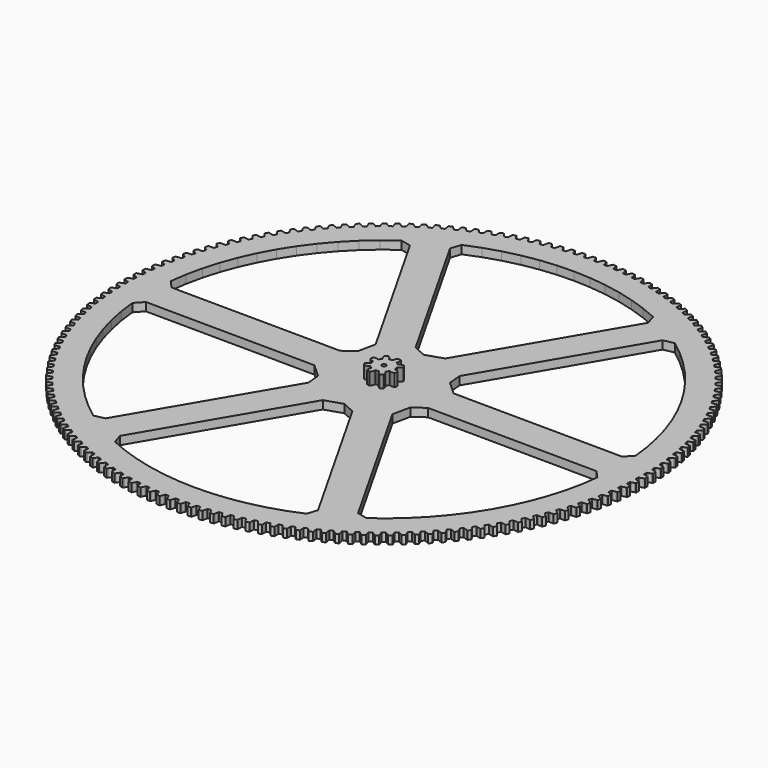
from build123d import *

# Parameters (mm, degrees)
F1_DEPTH = 10
F2_DEPTH = 4


with BuildPart() as f1:
    # F0 (on Top) → F1 (new body)
    with BuildSketch(Plane.XY):
        Polygon((-13.27646, -0.00481), (-13.1939, -0.17089), (-13.13288, -0.81546), (-12.99173, -1.44734), (-13.01893, -1.6308), (-13.07656, -1.71107), (-13.20774, -1.8214), (-13.3501, -1.89858), (-13.65528, -1.99503), (-13.93688, -2.15734), (-14.19151, -2.38919), (-14.42561, -2.66475), (-14.63868, -2.97784), (-14.82933, -3.32475), (-14.48061, -3.96028), (-14.07267, -4.55951), (-13.67702, -4.54714), (-13.30131, -4.49943), (-12.94951, -4.41594), (-12.62733, -4.29432), (-12.35487, -4.1171), (-12.13038, -3.88897), (-11.99699, -3.79717), (-11.83913, -3.73038), (-11.74144, -3.71547), (-11.56563, -3.77452), (-11.0667, -4.18716), (-10.52008, -4.53415), (-10.40959, -4.68311), (-10.39359, -4.78062), (-10.40832, -4.9514), (-10.45442, -5.10663), (-10.60201, -5.39063), (-10.68636, -5.70452), (-10.70247, -6.04851), (-10.67316, -6.4089), (-10.60243, -6.78095), (-10.49194, -7.16106), (-9.79597, -7.36387), (-9.08379, -7.49913), (-8.81277, -7.21061), (-8.58084, -6.91122), (-8.39112, -6.60342), (-8.2493, -6.28961), (-8.18196, -5.97163), (-8.18453, -5.65159), (-8.15512, -5.49234), (-8.09072, -5.33349), (-8.03219, -5.25387), (-7.86612, -5.17131), (-7.22154, -5.1103), (-6.58966, -4.96914), (-6.40621, -4.99634), (-6.32594, -5.05398), (-6.2156, -5.18515), (-6.13842, -5.32752), (-6.04197, -5.63269), (-5.87967, -5.9143), (-5.64781, -6.16892), (-5.37226, -6.40303), (-5.05916, -6.6161), (-4.71225, -6.80675), (-4.07673, -6.45803), (-3.47749, -6.05009), (-3.48987, -5.65443), (-3.53757, -5.27873), (-3.62106, -4.92693), (-3.74268, -4.60475), (-3.9199, -4.33229), (-4.14803, -4.1078), (-4.23984, -3.9744), (-4.30662, -3.81654), (-4.32154, -3.71886), (-4.26248, -3.54305), (-3.84985, -3.04412), (-3.50285, -2.4975), (-3.35389, -2.38701), (-3.25638, -2.37101), (-3.08561, -2.38574), (-2.93037, -2.43184), (-2.64637, -2.57942), (-2.33248, -2.66378), (-1.98849, -2.67989), (-1.62811, -2.65058), (-1.25605, -2.57985), (-0.87594, -2.46935), (-0.67314, -1.77339), (-0.53787, -1.06121), (-0.82639, -0.79019), (-1.12578, -0.55826), (-1.43358, -0.36853), (-1.7474, -0.22671), (-2.06537, -0.15937), (-2.38542, -0.16194), (-2.54466, -0.13254), (-2.70351, -0.06814), (-2.78313, -0.00961), (-2.86569, 0.15647), (-2.92671, 0.80104), (-3.06786, 1.43292), (-3.04066, 1.61638), (-2.98302, 1.69665), (-2.85185, 1.80698), (-2.70949, 1.88416), (-2.40431, 1.98061), (-2.12271, 2.14292), (-1.86808, 2.37477), (-1.63397, 2.65033), (-1.4209, 2.96342), (-1.23026, 3.31033), (-1.57898, 3.94586), (-1.98692, 4.54509), (-2.38257, 4.53271), (-2.75827, 4.48501), (-3.11007, 4.40152), (-3.43225, 4.2799), (-3.70471, 4.10268), (-3.9292, 3.87455), (-4.0626, 3.78274), (-4.22046, 3.71596), (-4.31815, 3.70105), (-4.49396, 3.7601), (-4.99288, 4.17274), (-5.5395, 4.51973), (-5.64999, 4.66869), (-5.666, 4.7662), (-5.65126, 4.93698), (-5.60517, 5.09221), (-5.45758, 5.37621), (-5.37322, 5.6901), (-5.35712, 6.03409), (-5.38643, 6.39448), (-5.45716, 6.76653), (-5.56765, 7.14664), (-6.26362, 7.34945), (-6.9758, 7.48471), (-7.24681, 7.19619), (-7.47874, 6.8968), (-7.66847, 6.589), (-7.81029, 6.27519), (-7.87763, 5.95721), (-7.87506, 5.63717), (-7.90447, 5.47792), (-7.96887, 5.31907), (-8.0274, 5.23945), (-8.19347, 5.15689), (-8.83804, 5.09588), (-9.46992, 4.95472), (-9.65338, 4.98192), (-9.73365, 5.03956), (-9.84399, 5.17073), (-9.92116, 5.3131), (-10.01762, 5.61827), (-10.17992, 5.89987), (-10.41177, 6.1545), (-10.68733, 6.38861), (-11.00042, 6.60168), (-11.34733, 6.79233), (-11.98286, 6.44361), (-12.58209, 6.03566), (-12.56972, 5.64001), (-12.52201, 5.26431), (-12.43852, 4.91251), (-12.31691, 4.59033), (-12.13968, 4.31787), (-11.91156, 4.09338), (-11.81975, 3.95998), (-11.75296, 3.80212), (-11.73805, 3.70444), (-11.7971, 3.52863), (-12.20974, 3.0297), (-12.55674, 2.48308), (-12.70569, 2.37259), (-12.80321, 2.35658), (-12.97398, 2.37132), (-13.12922, 2.41742), (-13.41321, 2.565), (-13.7271, 2.64936), (-14.0711, 2.66546), (-14.43148, 2.63615), (-14.80354, 2.56543), (-15.18365, 2.45493), (-15.38645, 1.75897), (-15.52171, 1.04678), (-15.2332, 0.77577), (-14.9338, 0.54384), (-14.626, 0.35411), (-14.31219, 0.21229), (-13.99422, 0.14495), (-13.67417, 0.14752), (-13.51493, 0.11812), (-13.35608, 0.05372), align=None)
        Polygon((-7.06386, 0.255215), (-7.02979, -0.003605), (-7.06386, -0.262425), (-7.16376, -0.503605), (-7.32268, -0.710715), (-7.52979, -0.869635), (-7.77097, -0.969535), (-8.02979, -1.003605), (-8.28861, -0.969535), (-8.52979, -0.869635), (-8.7369, -0.710715), (-8.89582, -0.503605), (-8.99572, -0.262425), (-9.02979, -0.003605), (-8.99572, 0.255215), (-8.89582, 0.496395), (-8.7369, 0.703505), (-8.52979, 0.862425), (-8.28861, 0.962325), (-8.02979, 0.996395), (-7.77097, 0.962325), (-7.52979, 0.862425), (-7.32268, 0.703505), (-7.16376, 0.496395), align=None, mode=Mode.SUBTRACT)
    extrude(amount=F1_DEPTH)

    # F0 (on Top) → F2 (join)
    with BuildSketch(Plane.XY):
        Polygon((117.89779, 0.458515), (117.29713, 0.660445), (117.27765, 2.303775), (117.87335, 2.519885), (119.06307, 2.982345), (119.657, 3.228115), (119.60606, 4.839015), (118.99778, 5.046765), (117.78122, 5.433125), (117.17305, 5.611165), (117.08866, 7.252445), (117.67537, 7.491925), (118.84588, 8.001015), (119.42964, 8.270065), (119.3151, 9.877695), (118.69909, 10.061245), (117.46822, 10.399245), (116.85349, 10.553125), (116.70432, 12.189785), (117.28111, 12.452255), (118.4306, 13.007195), (119.00327, 13.299095), (118.8253, 14.900945), (118.20253, 15.060025), (116.95926, 15.349125), (116.33893, 15.478595), (116.12523, 17.108085), (116.69119, 17.393135), (117.81786, 17.993055), (118.37855, 18.307355), (118.13744, 19.900915), (117.50887, 20.035275), (116.25515, 20.275025), (115.63019, 20.379895), (115.35227, 21.999665), (115.90653, 22.306865), (117.00862, 22.950825), (117.55646, 23.287025), (117.25258, 24.869815), (116.61919, 24.979235), (115.35698, 25.169275), (114.72837, 25.249365), (114.38668, 26.856895), (114.92837, 27.185745), (116.00416, 27.872745), (116.53829, 28.230325), (116.17211, 29.799885), (115.53489, 29.884185), (114.26616, 30.024215), (113.63487, 30.079415), (113.22994, 31.672185), (113.75822, 32.022175), (114.80602, 32.751145), (115.32561, 33.129545), (114.89771, 34.683405), (114.25766, 34.742475), (112.98439, 34.832275), (112.35141, 34.862485), (111.88387, 36.438015), (112.39791, 36.808605), (113.4161, 37.578395), (113.92033, 37.977025), (113.43138, 39.512775), (112.78949, 39.546515), (111.51367, 39.585935), (110.87999, 39.591115), (110.35057, 41.146945), (110.84957, 41.537555), (111.83655, 42.346975), (112.32464, 42.765215), (111.7754, 44.280445), (111.13268, 44.288795), (109.85629, 44.277785), (109.22291, 44.257925), (108.63243, 45.791625), (109.11561, 46.201645), (110.06984, 47.049425), (110.54103, 47.486615), (109.93235, 48.978965), (109.28981, 48.961915), (108.01485, 48.900495), (107.38274, 48.855625), (106.73214, 50.364805), (107.19874, 50.793595), (108.11874, 51.678405), (108.57228, 52.133875), (107.90513, 53.601015), (107.26376, 53.558595), (105.99222, 53.446845), (105.36238, 53.377045), (104.65266, 54.859335), (105.10196, 55.306225), (105.98628, 56.226685), (106.42148, 56.699725), (105.69688, 58.139355), (105.05769, 58.071635), (103.79156, 57.909735), (103.16497, 57.815105), (102.39724, 59.268205), (102.82853, 59.732495), (103.6758, 60.687175), (104.09197, 61.177035), (103.31106, 62.586925), (102.67504, 62.493995), (101.4163, 62.282205), (100.79394, 62.162895), (99.96941, 63.584535), (100.38202, 64.065495), (101.19091, 65.052905), (101.5874, 65.558825), (100.7514, 66.936755), (100.11955, 66.818775), (98.87016, 66.557425), (98.25299, 66.413615), (97.37294, 67.801575), (97.76623, 68.298455), (98.53548, 69.317055), (98.91167, 69.838245), (98.02189, 71.182075), (97.39519, 71.039225), (96.1571, 70.728715), (95.5461, 70.560645), (94.6119, 71.912745), (94.98525, 72.424775), (95.71366, 73.472975), (96.06897, 74.008615), (95.12679, 75.316245), (94.50623, 75.148745), (93.28137, 74.789565), (92.67749, 74.597485), (91.6906, 75.911625), (92.04343, 76.438005), (92.72986, 77.514155), (93.06373, 78.063415), (92.07063, 79.332805), (91.45717, 79.140925), (90.24745, 78.733635), (89.65163, 78.517845), (88.6136, 79.791965), (88.94535, 80.331885), (89.58873, 81.434315), (89.90064, 81.996335), (88.85817, 83.225495), (88.25277, 83.009525), (87.06009, 82.554765), (86.47325, 82.315605), (85.3857, 83.547725), (85.69586, 84.100325), (86.29519, 85.227315), (86.58465, 85.801215), (85.49443, 86.988235), (84.89803, 86.748515), (83.72425, 86.246985), (83.14732, 85.984835), (82.01194, 87.173025), (82.30003, 87.737445), (82.85436, 88.887235), (83.12093, 89.472125), (81.98466, 90.615145), (81.3982, 90.352055), (80.24515, 89.804545), (79.67903, 89.519805), (78.49759, 90.662215), (78.76316, 91.237575), (79.27164, 92.408365), (79.51489, 93.003325), (78.33435, 94.100565), (77.75874, 93.814505), (76.62822, 93.221875), (76.07379, 92.914985), (74.84814, 94.009835), (75.09077, 94.595235), (75.5526, 95.785195), (75.77215, 96.389315), (74.54919, 97.439055), (73.98533, 97.130475), (72.87911, 96.493645), (72.33724, 96.165095), (71.06929, 97.210665), (71.2886, 97.805195), (71.70306, 99.012475), (71.89857, 99.624785), (70.63509, 100.625395), (70.08386, 100.294785), (69.00366, 99.614745), (68.47519, 99.265045), (67.16693, 100.259705), (67.36259, 100.862435), (67.72902, 102.085145), (67.90019, 102.704705), (66.59817, 103.654615), (66.06043, 103.302485), (65.00794, 102.580305), (64.4937, 102.210005), (63.14716, 103.152195), (63.31885, 103.762195), (63.6367, 104.998425), (63.78326, 105.624265), (62.44473, 106.521995), (61.92132, 106.148895), (60.89818, 105.385695), (60.39897, 104.995365), (59.01626, 105.883625), (59.16372, 106.499925), (59.43247, 107.747745), (59.5542, 108.378885), (58.18124, 109.223035), (57.67298, 108.829555), (56.6808, 108.026525), (56.1974, 107.616775), (54.78067, 108.449725), (54.90367, 109.071365), (55.12292, 110.328825), (55.21961, 110.964285), (53.81438, 111.753535), (53.32206, 111.340275), (52.36237, 110.498685), (51.89554, 110.070155), (50.44701, 110.846475), (50.54535, 111.472495), (50.71475, 112.737645), (50.78627, 113.376425), (49.35095, 114.109545), (48.87535, 113.677155), (47.94965, 112.798305), (47.50011, 112.351665), (46.02205, 113.070165), (46.09558, 113.699575), (46.21487, 114.970425), (46.26109, 115.611535), (44.79793, 116.287375), (44.33978, 115.836535), (43.44953, 114.921805), (43.01799, 114.457755), (41.51269, 115.117285), (41.5613, 115.749115), (41.63029, 117.023685), (41.65114, 117.666125), (40.16243, 118.283635), (39.72244, 117.815045), (38.86903, 116.865855), (38.45616, 116.385115), (36.92598, 116.984675), (36.94959, 117.617925), (36.96817, 118.894225), (36.96363, 119.536985), (35.45168, 120.095195), (35.03055, 119.609595), (34.2153, 118.627425), (33.82174, 118.130755), (32.26907, 118.669385), (32.26765, 119.303085), (32.23579, 120.579125), (32.20586, 121.221195), (30.67304, 121.719245), (30.27142, 121.217385), (29.49561, 120.203775), (29.12198, 119.691945), (27.54925, 120.168815), (27.52278, 120.801955), (27.44054, 122.075735), (27.38527, 122.716135), (25.83397, 123.153235), (25.45249, 122.635895), (24.71733, 121.592425), (24.36421, 121.066235), (22.77386, 121.480605), (22.72241, 122.112205), (22.58991, 123.381745), (22.50938, 124.019455), (20.94202, 124.394925), (20.58128, 123.862925), (19.88792, 122.791225), (19.55586, 122.251495), (17.95039, 122.602705), (17.87402, 123.231785), (17.69147, 124.495095), (17.58581, 125.129125), (16.00484, 125.442385), (15.6654, 124.896545), (15.01492, 123.798295), (14.70444, 123.245865), (13.08635, 123.533385), (12.98519, 124.158955), (12.75286, 125.414065), (12.62224, 126.043425), (11.03013, 126.293975), (10.71252, 125.735155), (10.10593, 124.612065), (9.81753, 124.047805), (8.18933, 124.271165), (8.06354, 124.892245), (7.78181, 126.137205), (7.62643, 126.760915), (6.02566, 126.948375), (5.73038, 126.377435), (5.16863, 125.231255), (4.90274, 124.656045), (3.267, 124.814905), (3.11677, 125.430535), (2.78607, 126.663385), (2.60617, 127.280475), (0.99925, 127.404545), (0.72675, 126.822395), (0.21072, 125.654915), (-0.03223, 125.069645), (-1.67298, 125.163755), (-1.84741, 125.772975), (-2.22655, 126.991805), (-2.4307, 127.601295), (-4.04127, 127.661785), (-4.29055, 127.069325), (-4.76005, 125.882365), (-4.97969, 125.287955), (-6.62288, 125.317175), (-6.82125, 125.919025), (-7.24824, 127.121925), (-7.4763, 127.722875), (-9.08801, 127.719695), (-9.31369, 127.117845), (-9.73593, 125.913265), (-9.93192, 125.310635), (-11.57497, 125.274925), (-11.79696, 125.868465), (-12.27115, 127.053555), (-12.52278, 127.645025), (-14.13309, 127.578175), (-14.33483, 126.967875), (-14.70915, 125.747565), (-14.88118, 125.137665), (-16.52154, 125.037065), (-16.7668, 125.621365), (-17.28744, 126.786795), (-17.56223, 127.367875), (-19.16865, 127.237445), (-19.34612, 126.619655), (-19.67193, 125.385505), (-19.81973, 124.769285), (-21.45484, 124.603965), (-21.723, 125.178125), (-22.28927, 126.322075), (-22.58681, 126.891835), (-24.18682, 126.698055), (-24.33974, 126.073735), (-24.61654, 124.827675), (-24.73988, 124.206095), (-26.36718, 123.976305), (-26.65781, 124.539425), (-27.26883, 125.660115), (-27.58865, 126.217675), (-29.17976, 125.960835), (-29.30789, 125.330955), (-29.53525, 124.074935), (-29.63394, 123.448975), (-31.25089, 123.155065), (-31.56354, 123.706265), (-32.21836, 124.801935), (-32.55995, 125.346425), (-34.13967, 125.026925), (-34.24282, 124.392485), (-34.42039, 123.128465), (-34.49427, 122.499085), (-36.09834, 122.141535), (-36.43253, 122.679945), (-37.13012, 123.748895), (-37.49296, 124.279465), (-39.05882, 123.897805), (-39.13683, 123.259785), (-39.26431, 121.989735), (-39.31327, 121.357925), (-40.90197, 120.937285), (-41.25716, 121.462075), (-41.99644, 122.502625), (-42.37996, 123.018455), (-43.92952, 122.575225), (-43.98226, 121.934615), (-44.05947, 120.660525), (-44.08343, 120.027275), (-45.65427, 119.544195), (-46.02992, 120.054545), (-46.80973, 121.065085), (-47.21332, 121.565345), (-48.74417, 121.061255), (-48.77156, 120.419065), (-48.79837, 119.142905), (-48.7973, 118.509215), (-50.34782, 117.964445), (-50.74334, 118.459565), (-51.56247, 119.438505), (-51.98551, 119.922435), (-53.49524, 119.358255), (-53.49724, 118.715485), (-53.47362, 117.439265), (-53.44751, 116.806105), (-54.9753, 116.200515), (-55.39007, 116.679615), (-56.24723, 117.625425), (-56.68907, 118.092265), (-58.17533, 117.468885), (-58.15193, 116.826535), (-58.07791, 115.552245), (-58.02681, 114.920615), (-59.52948, 114.255135), (-59.96286, 114.717475), (-60.85671, 115.628685), (-61.31664, 116.077705), (-62.77712, 115.396095), (-62.72837, 114.755165), (-62.60406, 113.484805), (-62.52804, 112.855685), (-64.00325, 112.131355), (-64.45455, 112.576215), (-65.38371, 113.451395), (-65.86102, 113.881905), (-67.29343, 113.143115), (-67.21939, 112.504625), (-67.045, 111.240155), (-66.94418, 110.614535), (-68.38963, 109.832495), (-68.85815, 110.259175), (-69.82116, 111.096965), (-70.3151, 111.508275), (-71.71721, 110.713485), (-71.618, 110.078405), (-71.39379, 108.821825), (-71.26833, 108.200665), (-72.68176, 107.362135), (-73.16677, 107.769965), (-74.16213, 108.569065), (-74.67193, 108.960535), (-76.04154, 108.110975), (-75.91733, 107.480315), (-75.64364, 106.233565), (-75.49375, 105.617855), (-76.87294, 104.724135), (-77.37369, 105.112485), (-78.39983, 105.871635), (-78.92471, 106.242665), (-80.25969, 105.339655), (-80.11065, 104.714395), (-79.78793, 103.479435), (-79.61382, 102.870125), (-80.95663, 101.922615), (-81.47233, 102.290885), (-82.52767, 103.008905), (-83.06679, 103.358905), (-84.36505, 102.403855), (-84.19143, 101.784975), (-83.82017, 100.563725), (-83.62213, 99.961765), (-84.92646, 98.961945), (-85.4563, 99.309555), (-86.53918, 99.985325), (-87.09171, 100.313755), (-88.35123, 99.308155), (-88.15329, 98.696625), (-87.73407, 97.490995), (-87.51241, 96.897325), (-88.77622, 95.846765), (-89.31938, 96.173165), (-90.42811, 96.805625), (-90.99319, 97.111965), (-92.21199, 96.057405), (-91.99005, 95.454155), (-91.52353, 94.266035), (-91.27859, 93.681595), (-92.4999, 92.581915), (-93.05554, 92.886605), (-94.18839, 93.474765), (-94.76513, 93.758545), (-95.94132, 92.656655), (-95.69572, 92.062655), (-95.18262, 90.893885), (-94.91478, 90.319575), (-96.0917, 89.172505), (-96.65894, 89.455015), (-97.81414, 89.997955), (-98.40164, 90.258735), (-99.53338, 89.111225), (-99.2645, 88.527395), (-98.70563, 87.379805), (-98.41531, 86.816525), (-99.54599, 85.623865), (-100.12395, 85.883735), (-101.2997, 86.380615), (-101.89704, 86.617975), (-102.98257, 85.426665), (-102.69084, 84.853905), (-102.08706, 83.729295), (-101.77472, 83.177925), (-102.8574, 81.941515), (-103.44517, 82.178355), (-104.63964, 82.628405), (-105.24589, 82.841975), (-106.2835, 81.608705), (-105.96937, 81.047925), (-105.32164, 79.948045), (-104.98775, 79.409445), (-106.02074, 78.131225), (-106.61741, 78.344655), (-107.82872, 78.747165), (-108.44294, 78.936625), (-109.43102, 77.663325), (-109.09498, 77.115385), (-108.4043, 76.041955), (-108.0494, 75.516965), (-109.03108, 74.198935), (-109.63572, 74.388635), (-110.86199, 74.742965), (-111.48321, 74.908015), (-112.42021, 73.596665), (-112.06279, 73.062435), (-111.33024, 72.017125), (-110.95487, 71.506575), (-111.88372, 70.150795), (-112.49538, 70.316445), (-113.73469, 70.622065), (-114.36195, 70.762435), (-115.24641, 69.415095), (-114.86816, 68.895405), (-114.09489, 67.879855), (-113.69964, 67.384525), (-114.5742, 65.993105), (-115.19193, 66.134465), (-116.44235, 66.390885), (-117.07466, 66.506365), (-117.9052, 65.125135), (-117.50672, 64.620795), (-116.69393, 63.636585), (-116.27942, 63.157255), (-117.09833, 61.732375), (-117.72116, 61.849225), (-118.98073, 62.056035), (-119.61711, 62.146455), (-120.39244, 60.733485), (-119.97434, 60.245275), (-119.12331, 59.293955), (-118.69019, 58.831375), (-119.45216, 57.375255), (-120.07912, 57.467405), (-121.34588, 57.624295), (-121.98534, 57.689495), (-122.70424, 56.247005), (-122.26718, 55.775695), (-121.37922, 54.858735), (-120.92817, 54.413625), (-121.63202, 52.928535), (-122.26213, 52.995845), (-123.5341, 53.102575), (-124.17563, 53.142455), (-124.83698, 51.672695), (-124.38164, 51.219015), (-123.45816, 50.337845), (-122.98987, 49.910915), (-123.6345, 48.399175), (-124.26678, 48.441535), (-125.54197, 48.497925), (-126.18458, 48.512435), (-126.78735, 47.017695), (-126.31444, 46.582365), (-125.35686, 45.738365), (-124.87207, 45.330265), (-125.45648, 43.794235), (-126.08994, 43.811585), (-127.36636, 43.817555), (-128.00904, 43.806665), (-128.55229, 42.289275), (-128.06255, 41.872965), (-127.07237, 41.067465), (-126.57184, 40.678825), (-127.09511, 39.120915), (-127.72876, 39.113225), (-129.00442, 39.068765), (-129.64617, 39.032495), (-130.12904, 37.494825), (-129.62324, 37.098185), (-128.60202, 36.332425), (-128.08652, 35.963875), (-128.54783, 34.386505), (-129.18068, 34.353785), (-130.45359, 34.258965), (-131.09341, 34.197365), (-131.51516, 32.641825), (-130.99408, 32.265475), (-129.9434, 31.540665), (-129.41375, 31.192755), (-129.81238, 29.598395), (-130.44345, 29.540705), (-131.71161, 29.395665), (-132.3485, 29.308845), (-132.70846, 27.737855), (-132.17293, 27.382385), (-131.09443, 26.699645), (-130.55145, 26.372935), (-130.88678, 24.764065), (-131.51507, 24.681495), (-132.77652, 24.486465), (-133.40948, 24.374545), (-133.7071, 22.790565), (-133.15794, 22.456535), (-132.05331, 21.816925), (-131.49784, 21.511935), (-131.76935, 19.891075), (-132.39389, 19.783735), (-133.64665, 19.539025), (-134.27469, 19.402195), (-134.5095, 17.807685), (-133.94757, 17.495605), (-132.81854, 16.900145), (-132.25146, 16.617325), (-132.45872, 14.987005), (-133.07854, 14.855085), (-134.32065, 14.561075), (-134.94279, 14.399535), (-135.11443, 12.796995), (-134.5406, 12.507365), (-133.38893, 11.956965), (-132.81112, 11.696775), (-132.95381, 10.059545), (-133.56793, 9.903235), (-134.79745, 9.560375), (-135.41273, 9.374385), (-135.52092, 7.766315), (-134.9361, 7.499585), (-133.76359, 6.995115), (-133.17594, 6.757955), (-133.25385, 5.116365), (-133.86131, 4.935915), (-135.07633, 4.544755), (-135.68378, 4.334595), (-135.72835, 2.723515), (-135.13346, 2.480085), (-133.94192, 2.022335), (-133.34537, 1.808575), (-133.35836, 0.165185), (-133.95821, -0.039115), (-135.15683, -0.477975), (-135.75551, -0.711965), (-135.7364, -2.323555), (-135.13235, -2.543285), (-133.92366, -2.953605), (-133.31913, -3.143625), (-133.26718, -4.786255), (-133.8585, -5.014095), (-135.03885, -5.499965), (-135.62781, -5.757425), (-135.54505, -7.366995), (-134.93279, -7.562695), (-133.70883, -7.924935), (-133.09726, -8.090935), (-132.98046, -9.730225), (-133.56232, -9.981245), (-134.72255, -10.513365), (-135.30088, -10.793895), (-135.15459, -12.398945), (-134.53508, -12.570295), (-133.29777, -12.883905), (-132.68012, -13.025615), (-132.49865, -14.659005), (-133.07014, -14.932825), (-134.20844, -15.510365), (-134.77523, -15.813515), (-134.56565, -17.411535), (-133.93985, -17.558285), (-132.69112, -17.822765), (-132.06835, -17.939955), (-131.82249, -19.564905), (-132.38271, -19.861085), (-133.49731, -20.483145), (-134.05169, -20.808455), (-133.77914, -22.396945), (-133.14803, -22.518855), (-131.88982, -22.733795), (-131.26291, -22.826295), (-130.95305, -24.440265), (-131.50113, -24.758345), (-132.59028, -25.423955), (-133.13137, -25.770915), (-132.79628, -27.347395), (-132.16085, -27.444275), (-130.89513, -27.609345), (-130.26506, -27.677005), (-129.89168, -29.277465), (-130.42676, -29.616955), (-131.48877, -30.325075), (-132.01573, -30.693135), (-131.61862, -32.255155), (-130.97985, -32.326855), (-129.7086, -32.441785), (-129.07635, -32.484495), (-128.64003, -34.068965), (-129.16129, -34.429325), (-130.19449, -35.178845), (-130.7065, -35.567435), (-130.24798, -37.112545), (-129.60689, -37.158955), (-128.33209, -37.223575), (-127.69864, -37.241275), (-127.20006, -38.807265), (-127.70668, -39.187945), (-128.70946, -39.977695), (-129.20572, -40.386215), (-128.68652, -41.912005), (-128.04409, -41.933045), (-126.76774, -41.947255), (-126.13408, -41.939915), (-125.57403, -43.484985), (-126.06521, -43.885375), (-127.03601, -44.714135), (-127.51574, -45.141935), (-126.93667, -46.646025), (-126.29391, -46.641675), (-125.01799, -46.605445), (-124.38512, -46.573075), (-123.76446, -48.094815), (-124.23944, -48.514295), (-125.17674, -49.380765), (-125.63919, -49.827185), (-125.00115, -51.307215), (-124.35907, -51.277475), (-123.08557, -51.190865), (-122.45448, -51.133525), (-121.77419, -52.629555), (-122.23222, -53.067475), (-123.13456, -53.970295), (-123.57901, -54.434635), (-122.883, -55.888305), (-122.24259, -55.833215), (-120.97352, -55.696375), (-120.34518, -55.614135), (-119.60631, -57.082125), (-120.04669, -57.537795), (-120.91266, -58.475555), (-121.33842, -58.957095), (-120.58552, -60.382135), (-119.94779, -60.301795), (-118.68511, -60.114915), (-118.06051, -60.007925), (-117.26423, -61.445575), (-117.68626, -61.918295), (-118.5145, -62.889525), (-118.92091, -63.387515), (-118.1123, -64.781695), (-117.47824, -64.676225), (-116.22393, -64.439605), (-115.60404, -64.308025), (-114.75159, -65.713085), (-115.15461, -66.202105), (-115.94384, -67.205305), (-116.33026, -67.718965), (-115.4672, -69.080105), (-114.8378, -68.949665), (-113.59382, -68.663685), (-112.97961, -68.507715), (-112.07231, -69.878005), (-112.4557, -70.382565), (-113.20468, -71.416165), (-113.5705, -71.944675), (-112.65435, -73.270665), (-112.03059, -73.115465), (-110.79888, -72.780555), (-110.19132, -72.600445), (-109.23059, -73.933825), (-109.59374, -74.453135), (-110.3013, -75.515515), (-110.64596, -76.058075), (-109.67813, -77.346835), (-109.061, -77.167105), (-107.84348, -76.783795), (-107.2435, -76.579825), (-106.23085, -77.874205), (-106.57321, -78.407465), (-107.23824, -79.496965), (-107.5612, -80.052715), (-106.54321, -81.302235), (-105.93366, -81.098265), (-104.73223, -80.667155), (-104.14078, -80.439635), (-103.07778, -81.693005), (-103.3988, -82.239365), (-104.02028, -83.354295), (-104.32102, -83.922365), (-103.25447, -85.130695), (-102.65345, -84.902805), (-101.46999, -84.424565), (-100.888, -84.173855), (-99.77631, -85.384255), (-100.0755, -85.942875), (-100.65244, -87.081475), (-100.9305, -87.660995), (-99.81704, -88.826235), (-99.2255, -88.574785), (-98.06186, -88.050165), (-97.49022, -87.776665), (-96.33158, -88.942185), (-96.60847, -89.512195), (-97.13997, -90.672705), (-97.39493, -91.262755), (-96.23631, -92.383095), (-95.65516, -92.108465), (-94.51315, -91.538285), (-93.95276, -91.242415), (-92.74898, -92.361255), (-93.00313, -92.941755), (-93.48838, -94.122365), (-93.71983, -94.722015), (-92.51784, -95.795715), (-91.948, -95.498345), (-90.82941, -94.883495), (-90.28115, -94.565715), (-89.03411, -95.636125), (-89.26513, -96.226215), (-89.70335, -97.425065), (-89.91093, -98.033395), (-88.66746, -99.058775), (-88.10981, -98.739115), (-87.01638, -98.080555), (-86.48111, -97.741355), (-85.19275, -98.761675), (-85.40028, -99.360425), (-85.7908, -100.575655), (-85.97418, -101.191715), (-84.69118, -102.167155), (-84.14659, -101.825725), (-83.08003, -101.124475), (-82.55858, -100.764405), (-81.23091, -101.733015), (-81.41462, -102.339505), (-81.75683, -103.569205), (-81.91573, -104.192035), (-80.59519, -105.116035), (-80.06452, -104.753345), (-79.0265, -104.010515), (-78.51967, -103.630115), (-77.15478, -104.545525), (-77.31439, -105.158795), (-77.60775, -106.401065), (-77.74192, -107.029675), (-76.38591, -107.900785), (-75.86997, -107.517415), (-74.86211, -106.734155), (-74.37071, -106.334035), (-72.97072, -107.194805), (-73.10598, -107.813895), (-73.35002, -109.066785), (-73.45926, -109.700215), (-72.06989, -110.517065), (-71.56951, -110.113615), (-70.59338, -109.291145), (-70.11817, -108.871925), (-68.68526, -109.676715), (-68.79595, -110.300675), (-68.99031, -111.562225), (-69.07444, -112.199465), (-67.65388, -112.960795), (-67.16983, -112.537895), (-66.22695, -111.677505), (-65.76868, -111.239835), (-64.3051, -111.987385), (-64.39105, -112.615225), (-64.53542, -113.883475), (-64.5943, -114.523545), (-63.14478, -115.228155), (-62.67781, -114.786465), (-61.76966, -113.889495), (-61.32903, -113.434065), (-59.83706, -114.123215), (-59.89815, -114.753955), (-59.9923, -116.026915), (-60.02585, -116.668815), (-58.54962, -117.315615), (-58.10047, -116.855815), (-57.22846, -115.923665), (-56.80617, -115.451175), (-55.28814, -116.080845), (-55.32426, -116.713515), (-55.36805, -117.989195), (-55.37621, -118.631915), (-53.87558, -119.219895), (-53.44494, -118.742705), (-52.61045, -117.776835), (-52.20715, -117.288045), (-50.66543, -117.857245), (-50.67652, -118.490845), (-50.66988, -119.767265), (-50.65264, -120.409805), (-49.12996, -120.938035), (-48.71851, -120.444205), (-47.92282, -119.446125), (-47.53915, -118.941775), (-45.97615, -119.449625), (-45.9622, -120.083165), (-45.90514, -121.358325), (-45.86253, -121.999685), (-44.32017, -122.467355), (-43.92854, -121.957655), (-43.17291, -120.928915), (-42.80947, -120.409805), (-41.22762, -120.855505), (-41.18865, -121.488005), (-41.08125, -122.759915), (-41.01334, -123.399085), (-39.45371, -123.805455), (-39.08253, -123.280685), (-38.36813, -122.222895), (-38.02547, -121.689825), (-36.42725, -122.072695), (-36.36333, -122.703155), (-36.20577, -123.969835), (-36.11265, -124.605825), (-34.53818, -124.950255), (-34.18803, -124.411235), (-33.51597, -123.326045), (-33.19465, -122.779855), (-31.58255, -123.099285), (-31.49377, -123.726725), (-31.28628, -124.986185), (-31.16812, -125.618005), (-29.58127, -125.899965), (-29.25268, -125.347525), (-28.62402, -124.236645), (-28.32453, -123.678185), (-26.70107, -123.933675), (-26.58757, -124.557125), (-26.33049, -125.807405), (-26.18746, -126.434055), (-24.59071, -126.653105), (-24.2842, -126.088115), (-23.69992, -124.953265), (-23.42272, -124.383405), (-21.79043, -124.574555), (-21.65239, -125.193035), (-21.34612, -126.432185), (-21.17844, -127.052705), (-19.57429, -127.208495), (-19.29034, -126.631845), (-18.75135, -125.474785), (-18.49688, -124.894425), (-16.85831, -125.020945), (-16.69595, -125.633485), (-16.34096, -126.859565), (-16.1489, -127.472975), (-14.53984, -127.565275), (-14.2789, -126.977855), (-13.78604, -125.800405), (-13.5547, -125.210445), (-11.91241, -125.272125), (-11.72597, -125.877775), (-11.32283, -127.088875), (-11.10668, -127.694215), (-9.49523, -127.722875), (-9.2577, -127.125605), (-8.81174, -125.929605), (-8.60389, -125.330975), (-6.96045, -125.327725), (-6.75023, -125.925535), (-6.29955, -127.119755), (-6.05966, -127.716085), (-4.44833, -127.681065), (-4.23458, -127.074875), (-3.83622, -125.862195), (-3.65218, -125.255805), (-2.01015, -125.187635), (-1.77648, -125.776675), (-1.27897, -126.952165), (-1.01571, -127.538555), (0.59298, -127.439895), (0.78261, -126.825735), (1.13275, -125.598265), (1.29269, -124.985085), (2.93075, -124.852095), (3.18751, -125.431435), (3.73107, -126.586355), (4.01729, -127.161885), (5.62082, -126.999755), (5.78604, -126.378575), (6.08741, -125.138225), (6.22301, -124.519205), (7.85453, -124.321615), (8.13398, -124.890365), (8.72274, -126.022905), (9.03148, -126.586675), (10.62735, -126.361315), (10.7679, -125.734095), (11.02004, -124.482815), (11.13107, -123.858925), (12.75351, -123.597025), (13.05521, -124.154285), (13.68825, -125.262685), (14.01902, -125.813815), (15.60475, -125.525595), (15.72041, -124.893315), (15.92292, -123.633045), (16.00922, -123.005245), (17.62004, -122.679455), (17.94352, -123.224365), (18.61986, -124.306895), (18.97215, -124.844525), (20.54524, -124.493875), (20.63584, -123.857515), (20.7884, -122.590235), (20.84983, -121.959525), (22.44652, -121.570345), (22.79128, -122.102055), (23.50986, -123.157015), (23.88311, -123.680305), (25.44112, -123.267785), (25.50651, -122.628345), (25.60888, -121.356025), (25.64534, -120.723375), (27.22542, -120.271425), (27.59091, -120.789095), (28.35061, -121.814845), (28.74424, -122.322985), (30.28474, -121.849235), (30.32481, -121.207705), (30.37684, -119.932335), (30.38828, -119.298745), (31.94927, -118.784715), (32.33493, -119.287545), (33.13455, -120.282475), (33.54795, -120.774675), (35.06854, -120.240435), (35.08323, -119.597825), (35.08483, -118.321395), (35.07124, -117.687845), (36.6107, -117.112545), (37.01592, -117.599755), (37.85423, -118.562315), (38.28675, -119.037795), (39.78504, -118.443895), (39.77434, -117.801215), (39.72551, -116.525715), (39.68689, -115.893195), (41.20242, -115.257525), (41.62658, -115.728345), (42.50226, -116.657035), (42.95323, -117.115055), (44.42688, -116.462425), (44.3908, -115.820665), (44.29162, -114.548095), (44.22804, -113.917595), (45.71728, -113.222555), (46.1597, -113.676245), (47.07139, -114.569615), (47.5401, -115.009465), (48.98682, -114.299125), (48.92542, -113.659295), (48.77603, -112.391625), (48.6876, -111.764135), (50.14822, -111.010805), (50.60822, -111.446655), (51.55449, -112.303315), (52.04021, -112.724305), (53.45774, -111.957365), (53.3711, -111.320455), (53.17176, -110.059685), (53.0586, -109.436175), (54.48831, -108.625725), (54.96518, -109.043065), (55.94455, -109.861675), (56.44652, -110.263145), (57.83265, -109.440795), (57.72092, -108.807815), (57.47192, -107.555895), (57.33422, -106.937345), (58.7308, -106.071045), (59.22378, -106.469225), (60.23472, -107.248495), (60.75217, -107.629825), (62.10472, -106.753355), (61.96807, -106.125285), (61.66981, -104.884185), (61.50778, -104.271555), (62.86904, -103.350755), (63.37737, -103.729145), (64.41831, -104.467875), (64.95042, -104.828455), (66.26729, -103.899245), (66.10593, -103.277055), (65.75887, -102.048705), (65.57276, -101.442955), (66.89659, -100.469105), (67.41946, -100.827115), (68.48878, -101.524135), (69.03472, -101.863425), (70.31385, -100.882905), (70.12804, -100.267575), (69.73272, -99.053905), (69.52283, -98.455975), (70.80714, -97.430585), (71.34376, -97.767655), (72.43977, -98.421895), (72.99869, -98.739345), (74.23809, -97.709065), (74.02811, -97.101555), (73.58515, -95.904445), (73.3518, -95.315275), (74.59461, -94.239945), (75.14411, -94.555555), (76.26513, -95.165985), (76.83614, -95.461105), (78.03387, -94.382655), (77.80006, -93.783925), (77.31015, -92.605245), (77.05371, -92.025755), (78.25306, -90.902165), (78.81461, -91.195815), (79.95886, -91.761485), (80.54109, -92.033815), (81.69528, -90.908895), (81.43799, -90.319865), (80.9019, -89.161465), (80.62277, -88.592555), (81.77679, -87.422455), (82.3495, -87.693695), (83.51521, -88.213715), (84.10775, -88.462835), (85.21659, -87.293195), (84.93624, -86.714785), (84.3548, -85.578465), (84.05341, -85.021035), (85.1603, -83.806255), (85.74328, -84.054665), (86.92862, -84.528215), (87.53054, -84.753735), (88.59231, -83.541195), (88.28932, -82.974315), (87.66345, -81.861855), (87.34027, -81.316765), (88.39831, -80.059205), (88.99065, -80.284385), (90.19377, -80.710745), (90.80413, -80.912305), (91.81717, -79.658775), (91.49202, -79.104305), (90.82268, -78.017435), (90.47822, -77.485535), (91.48575, -76.187165), (92.08653, -76.388765), (93.30555, -76.767255), (93.92339, -76.944545), (94.88612, -75.651975), (94.53932, -75.110785), (93.82757, -74.051205), (93.46236, -73.533335), (94.41782, -72.196165), (95.02608, -72.373875), (96.25911, -72.703915), (96.88348, -72.856655), (97.79439, -71.527055), (97.42648, -70.999985), (96.67342, -69.969355), (96.28804, -69.466315), (97.18992, -68.092445), (97.80473, -68.245985), (99.04984, -68.527055), (99.67975, -68.655015), (100.53742, -67.290465), (100.14897, -66.778345), (99.35579, -65.778265), (98.95084, -65.290845), (99.79773, -63.882415), (100.41813, -64.011555), (101.67337, -64.243215), (102.30784, -64.346175), (103.11094, -62.948815), (102.70256, -62.452435), (101.87049, -61.484475), (101.44659, -61.013435), (102.23719, -59.572655), (102.86221, -59.677175), (104.12562, -59.859055), (104.76366, -59.936885), (105.51092, -58.508875), (105.08326, -58.029025), (104.21359, -57.094695), (103.77142, -56.640765), (104.50448, -55.169875), (105.13313, -55.249615), (106.40274, -55.381455), (107.04336, -55.434005), (107.73363, -53.977595), (107.28734, -53.515015), (106.38144, -52.615765), (105.92168, -52.179665), (106.59605, -50.680955), (107.22737, -50.735805), (108.5012, -50.817375), (109.14339, -50.844585), (109.77558, -49.362035), (109.31136, -48.917445), (108.37065, -48.054695), (107.89402, -47.637095), (108.50866, -46.112915), (109.14165, -46.142775), (110.4177, -46.173965), (111.06047, -46.175775), (111.63359, -44.669415), (111.15218, -44.243515), (110.17811, -43.418595), (109.68535, -43.020155), (110.2393, -41.472885), (110.87298, -41.477715), (112.14927, -41.458465), (112.79161, -41.434875), (113.30477, -39.907055), (112.8069, -39.500495), (111.80101, -38.714715), (111.29289, -38.336045), (111.78528, -36.768095), (112.41865, -36.747895), (113.69318, -36.678235), (114.33409, -36.629295), (114.78649, -35.082385), (114.27295, -34.695815), (113.2368, -33.950385), (112.71412, -33.592085), (113.14418, -32.005905), (113.77626, -31.960695), (115.04705, -31.840735), (115.68552, -31.766515), (116.07646, -30.202945), (115.54804, -29.836965), (114.48325, -29.133045), (113.94682, -28.795675), (114.31388, -27.193755), (114.94368, -27.123605), (116.20874, -26.953535), (116.84378, -26.854145), (117.17264, -25.276345), (116.63018, -24.931535), (115.53841, -24.270235), (114.98908, -23.954315), (115.29256, -22.339145), (115.9191, -22.244165), (117.17645, -22.024255), (117.80707, -21.899855), (118.07334, -20.310295), (117.51768, -19.987185), (116.40063, -19.369525), (115.83925, -19.075565), (116.07868, -17.449655), (116.70098, -17.330005), (117.94866, -17.060585), (118.57387, -16.911375), (118.77714, -15.312535), (118.20915, -15.011625), (117.06857, -14.438585), (116.49601, -14.167025), (116.67103, -12.532935), (117.28811, -12.388785), (118.52417, -12.070295), (119.143, -11.896495), (119.28294, -10.290875), (118.70351, -10.012635), (117.54119, -9.485105), (116.95834, -9.236375), (117.06867, -7.596645), (117.67957, -7.428235), (118.90209, -7.061155), (119.51357, -6.863045), (119.58997, -5.253145), (118.99999, -4.998025), (117.81774, -4.516825), (117.22552, -4.291315), (117.27098, -2.648505), (117.87476, -2.456085), (119.08181, -2.040995), (119.68499, -1.818885), (119.69773, -0.207225), (119.09814, 0.024395), align=None)
        Polygon((-57.04432, -98.491445), (-15.46113, -27.764115), (-7.04594, -25.050025), (-1.03816, -27.878105), (39.42191, -99.253865), (37.81843, -104.195425), (30.37508, -107.162645), (22.74144, -109.598895), (14.95532, -111.492075), (7.0553, -112.832835), (-0.91946, -113.614515), (-8.92945, -113.833235), (-16.93498, -113.487935), (-24.89639, -112.580305), (-32.77422, -111.114845), (-40.52945, -109.098825), (-48.12363, -106.542235), (-55.51915, -103.457725), align=None, mode=Mode.SUBTRACT)
        Polygon((-117.83002, -6.799695), (-35.78677, -7.448125), (-29.2287, -13.378855), (-28.674, -19.995785), (-70.25719, -90.723115), (-75.33845, -91.805235), (-81.62981, -86.842725), (-87.55648, -81.449915), (-93.08909, -75.653525), (-98.20022, -69.482295), (-102.86455, -62.966785), (-107.05897, -56.139295), (-110.7627, -49.033645), (-113.95737, -41.685045), (-116.62716, -34.129915), (-118.75885, -26.405685), (-120.34187, -18.550635), (-121.36837, -10.603675), align=None, mode=Mode.SUBTRACT)
        Polygon((-13.13288, -0.81546), (-13.1939, -0.17089), (-13.27646, -0.00481), (-13.35608, 0.05372), (-13.51493, 0.11812), (-13.67417, 0.14752), (-13.99422, 0.14495), (-14.31219, 0.21229), (-14.626, 0.35411), (-14.9338, 0.54384), (-15.2332, 0.77577), (-15.52171, 1.04678), (-15.38645, 1.75897), (-15.18365, 2.45493), (-14.80354, 2.56543), (-14.43148, 2.63615), (-14.0711, 2.66546), (-13.7271, 2.64936), (-13.41321, 2.565), (-13.12922, 2.41742), (-12.97398, 2.37132), (-12.80321, 2.35658), (-12.70569, 2.37259), (-12.55674, 2.48308), (-12.20974, 3.0297), (-11.7971, 3.52863), (-11.73805, 3.70444), (-11.75296, 3.80212), (-11.81975, 3.95998), (-11.91156, 4.09338), (-12.13968, 4.31787), (-12.31691, 4.59033), (-12.43852, 4.91251), (-12.52201, 5.26431), (-12.56972, 5.64001), (-12.58209, 6.03566), (-11.98286, 6.44361), (-11.34733, 6.79233), (-11.00042, 6.60168), (-10.68733, 6.38861), (-10.41177, 6.1545), (-10.17992, 5.89987), (-10.01762, 5.61827), (-9.92116, 5.3131), (-9.84399, 5.17073), (-9.73365, 5.03956), (-9.65338, 4.98192), (-9.46992, 4.95472), (-8.83804, 5.09588), (-8.19347, 5.15689), (-8.0274, 5.23945), (-7.96887, 5.31907), (-7.90447, 5.47792), (-7.87506, 5.63717), (-7.87763, 5.95721), (-7.81029, 6.27519), (-7.66847, 6.589), (-7.47874, 6.8968), (-7.24681, 7.19619), (-6.9758, 7.48471), (-6.26362, 7.34945), (-5.56765, 7.14664), (-5.45716, 6.76653), (-5.38643, 6.39448), (-5.35712, 6.03409), (-5.37322, 5.6901), (-5.45758, 5.37621), (-5.60517, 5.09221), (-5.65126, 4.93698), (-5.666, 4.7662), (-5.64999, 4.66869), (-5.5395, 4.51973), (-4.99288, 4.17274), (-4.49396, 3.7601), (-4.31815, 3.70105), (-4.22046, 3.71596), (-4.0626, 3.78274), (-3.9292, 3.87455), (-3.70471, 4.10268), (-3.43225, 4.2799), (-3.11007, 4.40152), (-2.75827, 4.48501), (-2.38257, 4.53271), (-1.98692, 4.54509), (-1.57898, 3.94586), (-1.23026, 3.31033), (-1.4209, 2.96342), (-1.63397, 2.65033), (-1.86808, 2.37477), (-2.12271, 2.14292), (-2.40431, 1.98061), (-2.70949, 1.88416), (-2.85185, 1.80698), (-2.98302, 1.69665), (-3.04066, 1.61638), (-3.06786, 1.43292), (-2.92671, 0.80104), (-2.86569, 0.15647), (-2.78313, -0.00961), (-2.70351, -0.06814), (-2.54466, -0.13254), (-2.38542, -0.16194), (-2.06537, -0.15937), (-1.7474, -0.22671), (-1.43358, -0.36853), (-1.12578, -0.55826), (-0.82639, -0.79019), (-0.53787, -1.06121), (-0.67314, -1.77339), (-0.87594, -2.46935), (-1.25605, -2.57985), (-1.62811, -2.65058), (-1.98849, -2.67989), (-2.33248, -2.66378), (-2.64637, -2.57942), (-2.93037, -2.43184), (-3.08561, -2.38574), (-3.25638, -2.37101), (-3.35389, -2.38701), (-3.50285, -2.4975), (-3.84985, -3.04412), (-4.26248, -3.54305), (-4.32154, -3.71886), (-4.30662, -3.81654), (-4.23984, -3.9744), (-4.14803, -4.1078), (-3.9199, -4.33229), (-3.74268, -4.60475), (-3.62106, -4.92693), (-3.53757, -5.27873), (-3.48987, -5.65443), (-3.47749, -6.05009), (-4.07673, -6.45803), (-4.71225, -6.80675), (-5.05916, -6.6161), (-5.37226, -6.40303), (-5.64781, -6.16892), (-5.87967, -5.9143), (-6.04197, -5.63269), (-6.13842, -5.32752), (-6.2156, -5.18515), (-6.32594, -5.05398), (-6.40621, -4.99634), (-6.58966, -4.96914), (-7.22154, -5.1103), (-7.86612, -5.17131), (-8.03219, -5.25387), (-8.09072, -5.33349), (-8.15512, -5.49234), (-8.18453, -5.65159), (-8.18196, -5.97163), (-8.2493, -6.28961), (-8.39112, -6.60342), (-8.58084, -6.91122), (-8.81277, -7.21061), (-9.08379, -7.49913), (-9.79597, -7.36387), (-10.49194, -7.16106), (-10.60243, -6.78095), (-10.67316, -6.4089), (-10.70247, -6.04851), (-10.68636, -5.70452), (-10.60201, -5.39063), (-10.45442, -5.10663), (-10.40832, -4.9514), (-10.39359, -4.78062), (-10.40959, -4.68311), (-10.52008, -4.53415), (-11.0667, -4.18716), (-11.56563, -3.77452), (-11.74144, -3.71547), (-11.83913, -3.73038), (-11.99699, -3.79717), (-12.13038, -3.88897), (-12.35487, -4.1171), (-12.62733, -4.29432), (-12.94951, -4.41594), (-13.30131, -4.49943), (-13.67702, -4.54714), (-14.07267, -4.55951), (-14.48061, -3.96028), (-14.82933, -3.32475), (-14.63868, -2.97784), (-14.42561, -2.66475), (-14.19151, -2.38919), (-13.93688, -2.15734), (-13.65528, -1.99503), (-13.3501, -1.89858), (-13.20774, -1.8214), (-13.07656, -1.71107), (-13.01893, -1.6308), (-12.99173, -1.44734), align=None, mode=Mode.SUBTRACT)
        Polygon((52.75591, -91.695355), (12.29584, -20.319595), (14.15297, -11.674775), (19.60605, -7.885925), (101.64931, -8.534355), (105.12708, -12.393795), (103.9751, -20.323535), (102.26812, -28.152585), (100.01461, -35.842155), (97.22573, -43.354145), (93.91531, -50.651325), (90.09974, -57.697545), (85.79792, -64.457895), (81.03119, -70.898855), (75.82315, -76.988535), (70.19962, -82.696745), (64.18845, -87.995205), (57.81943, -92.857655), align=None, mode=Mode.SUBTRACT)
        Polygon((-68.81549, 91.688145), (-28.35542, 20.312385), (-30.21255, 11.667565), (-35.66563, 7.878715), (-117.70889, 8.527145), (-121.18666, 12.386585), (-120.03468, 20.316325), (-118.3277, 28.145375), (-116.07419, 35.834945), (-113.28532, 43.346935), (-109.97489, 50.644115), (-106.15932, 57.690335), (-101.8575, 64.450685), (-97.09077, 70.891645), (-91.88273, 76.981325), (-86.2592, 82.689535), (-80.24803, 87.987995), (-73.87901, 92.850445), align=None, mode=Mode.SUBTRACT)
        Polygon((101.77044, 6.792485), (19.72719, 7.440915), (13.16912, 13.371645), (12.61442, 19.988575), (54.19761, 90.715905), (59.27887, 91.798025), (65.57023, 86.835515), (71.4969, 81.442705), (77.02951, 75.646315), (82.14064, 69.475085), (86.80497, 62.959575), (90.99939, 56.132085), (94.70312, 49.026435), (97.89779, 41.677835), (100.56758, 34.122705), (102.69927, 26.398475), (104.28229, 18.543425), (105.30879, 10.596465), align=None, mode=Mode.SUBTRACT)
        Polygon((40.98474, 98.484235), (-0.59845, 27.756905), (-9.01364, 25.042815), (-15.02142, 27.870895), (-55.48149, 99.246655), (-53.87801, 104.188215), (-46.43466, 107.155435), (-38.80102, 109.591675), (-31.0149, 111.484865), (-23.11488, 112.825625), (-15.14012, 113.607305), (-7.13013, 113.826025), (0.8754, 113.480725), (8.83681, 112.573095), (16.71464, 111.107635), (24.46986, 109.091615), (32.06405, 106.535025), (39.45957, 103.450515), align=None, mode=Mode.SUBTRACT)
    extrude(amount=F2_DEPTH)


solid = f1.part
